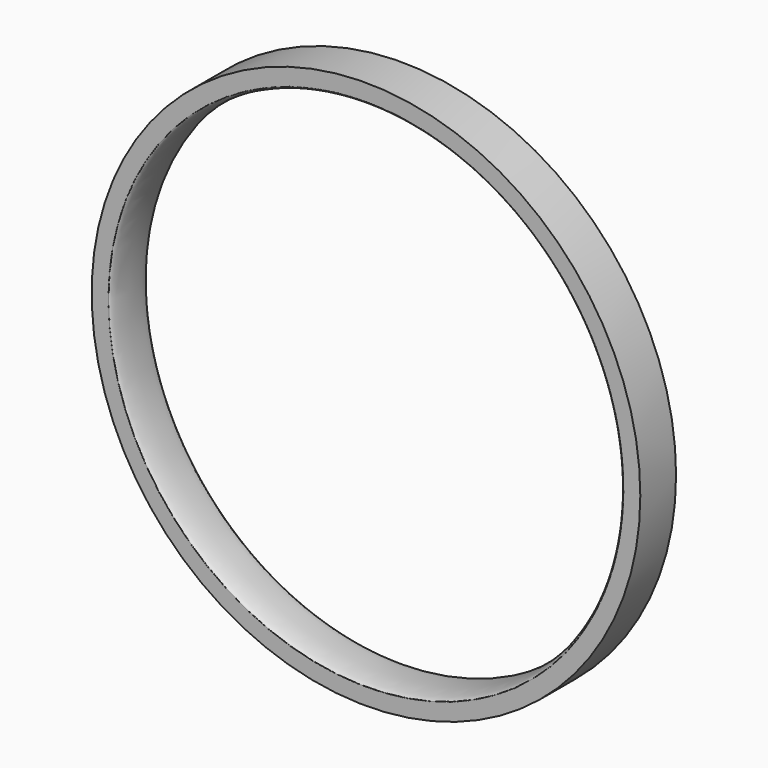
from build123d import *

# Parameters (mm, degrees)
F0_R     = 363.355
F0_R_2   = 334.705
F1_DEPTH = 59.2
F4_R     = 3.2


with BuildPart() as f1:
    # F0 (on Front) → F1 (new body)
    with BuildSketch(Plane.XZ):
        Circle(F0_R)
        Circle(F0_R_2, mode=Mode.SUBTRACT)
    extrude(amount=F1_DEPTH)

    # F2 (on Top) → F3 (revolve, cut)
    with BuildSketch(Plane.XY):
        with BuildLine():
            add(Edge.make_bspline(
                [(-341.1, -59.1532327235), (-335.4908481347, -59.1532327235), (-334.9615674901, -30.6715493058), (-334.4322868455, -2.189865888), (-339.9415526647, 3.1852083197)],
                knots=[0, 0, 0, 1.4762955431, 1.4762955431, 2.9525910861, 2.9525910861, 2.9525910861], degree=2, weights=[1, 0.7397162265, 1, 0.7397162265, 1]))
            Line((-341.1, -59.1532327235), (-346.7482924461, -65.4306858778))
            Line((-346.7482924461, -65.4306858778), (-320.7925856113, -65.4306858778))
            Line((-320.7925856113, -65.4306858778), (-323.885768652, -5.719171837))
            Line((-323.885768652, -5.719171837), (-336.175262928, 6.8636881188))
            Line((-336.175262928, 6.8636881188), (-339.9415526647, 3.1852083197))
        make_face()
    revolve(axis=Axis((0, -60.9462112188, 0), (0, -1, 0)), mode=Mode.SUBTRACT)

    # F4
    f4_edges = [f1.edges().sort_by_distance(p)[0] for p in [
        (338.181774, 0, 0),
    ]]
    fillet(f4_edges, radius=F4_R)


solid = f1.part
